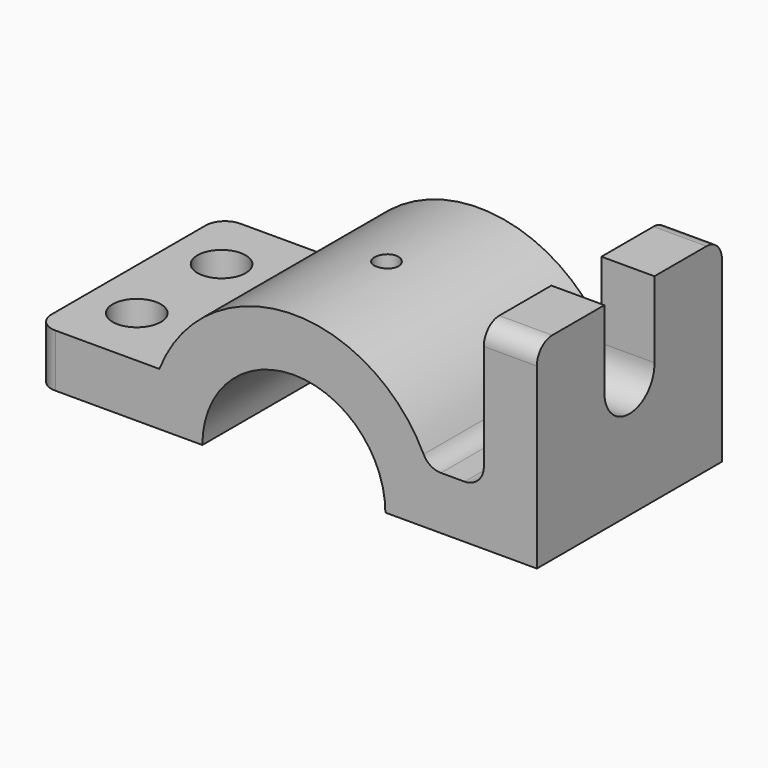
from build123d import *

# Parameters (mm, degrees)
F1_DEPTH      = 1219.2
F3_DEPTH      = 526.82718
F4_R          = 127
F4_R_2        = 63.5
F5_DEPTH      = 279.401
F5_DEPTH_BACK = 762.001
F6_R          = 101.6


with BuildPart() as f1:
    # F0 (on Front) → F1 (new body)
    with BuildSketch(Plane.XZ):
        with BuildLine():
            ThreePointArc((-482.219, 0), (0, 482.219), (482.219, 0))
            Line((482.219, 0), (1280.5168718338, 0))
            Line((1280.5168718338, 0), (1280.5168718338, 279.4))
            Line((1280.5168718338, 279.4), (1280.5168718338, 1041.4))
            Line((1280.5168718338, 1041.4), (1001.1168718338, 1041.4))
            Line((1001.1168718338, 1041.4), (1001.1168718338, 279.4))
            Line((1001.1168718338, 279.4), (708.9285154372, 279.4))
            ThreePointArc((708.9285154372, 279.4), (0, 762), (-708.9285154372, 279.4))
            Line((-708.9285154372, 279.4), (-1358.9, 279.4))
            Line((-1358.9, 279.4), (-1358.9, 0))
            Line((-1358.9, 0), (-482.219, 0))
        make_face()
    extrude(amount=F1_DEPTH)

    # F2 (on face) → F3 (cut)
    with BuildSketch(Plane.YZ.offset(1280.5168718338)):
        with BuildLine():
            Line((-774.5888896633, 1041.4), (-774.5888896633, 641.0560950858))
            ThreePointArc((-774.5888896633, 641.0560950858), (-610.110559149, 469.9007894345), (-444.5768100975, 640.0355530376))
            Line((-444.5768100975, 640.0355530376), (-444.5768100975, 1041.4))
            Line((-444.5768100975, 1041.4), (-774.5888896633, 1041.4))
        make_face()
    extrude(amount=-F3_DEPTH, mode=Mode.SUBTRACT)

    # F4 (on face) → F5 (cut, two sides)
    with BuildSketch(Plane.XY.offset(279.4)) as f5_sk:
        with Locations((-1092.2, -889)):
            Circle(F4_R)
        with Locations((-1092.2, -330.2)):
            Circle(F4_R)
        with Locations((0, -609.6)):
            Circle(F4_R_2)
    extrude(amount=-F5_DEPTH, mode=Mode.SUBTRACT)
    extrude(f5_sk.sketch, amount=F5_DEPTH_BACK, mode=Mode.SUBTRACT)

    # F6
    f6_edges = [f1.edges().sort_by_distance(p)[0] for p in [
        (1140.816872, -1219.2, 1041.4),
        (1001.116872, -609.6, 279.4),
        (-1358.9, -1219.2, 139.7),
        (1140.816872, 0, 1041.4),
        (-1358.9, 0, 139.7),
        (708.928515, -609.6, 279.4),
    ]]
    fillet(f6_edges, radius=F6_R)


solid = f1.part
